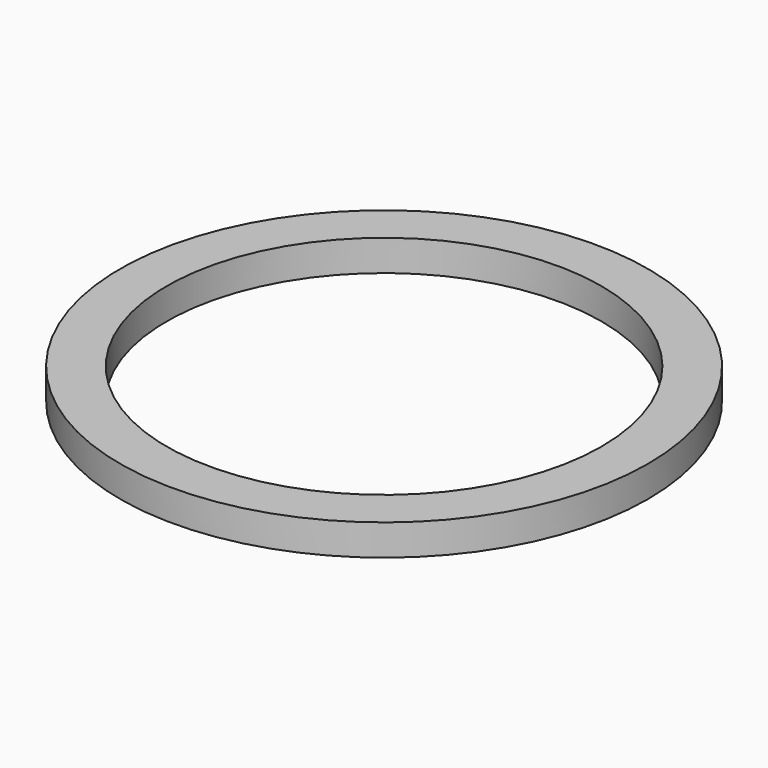
from build123d import *

# Parameters (mm, degrees)
F0_R     = 215.9
F0_R_2   = 177.8
F1_DEPTH = 25.4
F2_R     = 5.08
F3_DEPTH = 38.1


with BuildPart() as f1:
    # F0 (on Top) → F1 (new body)
    with BuildSketch(Plane.XY):
        Circle(F0_R)
        Circle(F0_R_2, mode=Mode.SUBTRACT)
    extrude(amount=F1_DEPTH)

    # F2 (on face) → F3 (cut)
    with BuildSketch(Plane.XY.offset(25.4)):
        with Locations((29.21, 50.593204)):
            Circle(F2_R)
        with Locations((-29.21, 50.593204)):
            Circle(F2_R)
        with Locations((-58.42, 0)):
            Circle(F2_R)
        with Locations((-29.21, -50.593204)):
            Circle(F2_R)
        with Locations((29.21, -50.593204)):
            Circle(F2_R)
        with Locations((58.42, 0)):
            Circle(F2_R)
    extrude(amount=-F3_DEPTH, mode=Mode.SUBTRACT)


solid = f1.part
